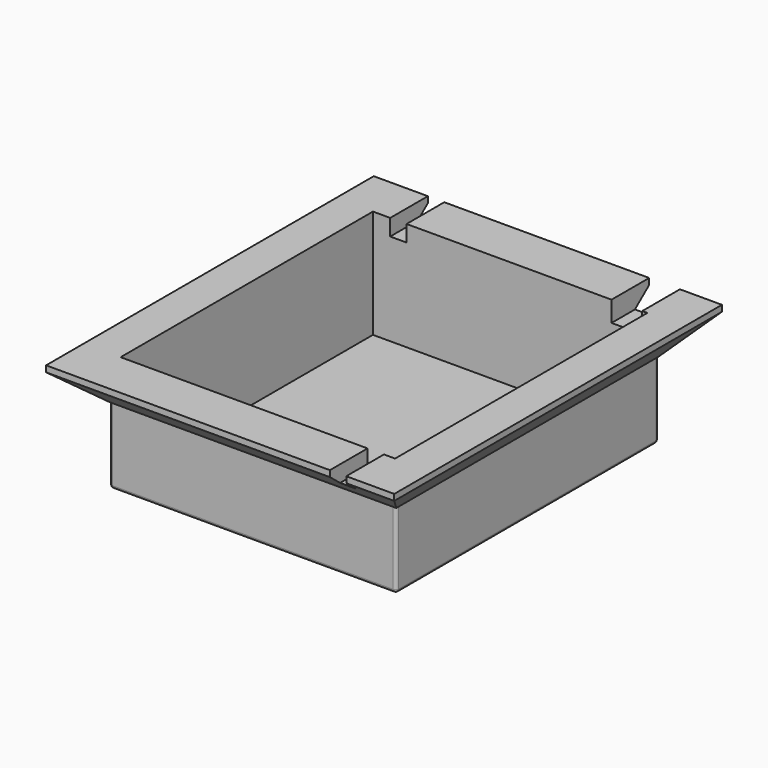
from build123d import *

# Parameters (mm, degrees)
F0_W      = 140
F0_H      = 160
F1_DEPTH  = 3
F2_W      = 140
F2_H      = 160
F2_W_2    = 134
F2_H_2    = 154
F3_DEPTH  = 50
F4_W      = 170
F4_H      = 200
F4_W_2    = 140
F4_H_2    = 160
F4_W_3    = 134
F4_H_3    = 154
F5_DEPTH  = 3
F8_R      = 1.5
F10_DEPTH = 170
F6_W      = 15
F6_H      = 7
F6_H_2    = 3
F6_W_2    = 8
F6_H_3    = 5
F11_DEPTH = 25
F7_W      = 8
F7_H      = 5
F7_H_2    = 3
F12_DEPTH = 25
F14_DEPTH = 200
F16_DEPTH = 200
F18_DEPTH = 170


with BuildPart() as f1:
    # F0 (on Top) → F1 (new body)
    with BuildSketch(Plane.XY):
        Rectangle(F0_W, F0_H)
    extrude(amount=F1_DEPTH)

    # F2 (on face) → F3 (join)
    with BuildSketch(Plane.XY.offset(3)):
        Rectangle(F2_W, F2_H)
        Rectangle(F2_W_2, F2_H_2, mode=Mode.SUBTRACT)
    extrude(amount=F3_DEPTH)

    # F4 (on face) → F5 (join)
    with BuildSketch(Plane.XY.offset(53)):
        Rectangle(F4_W, F4_H)
        Rectangle(F4_W_2, F4_H_2, mode=Mode.SUBTRACT)
        Rectangle(F4_W_2, F4_H_2)
        Rectangle(F4_W_3, F4_H_3, mode=Mode.SUBTRACT)
    extrude(amount=F5_DEPTH)

    # F8
    f8_edges = [f1.edges().sort_by_distance(p)[0] for p in [
        (-70, 0, 0),
        (0, -80, 0),
        (70, 0, 0),
        (0, 80, 0),
        (-70, 80, 26.5),
        (70, 80, 26.5),
        (-70, -80, 26.5),
        (70, -80, 26.5),
    ]]
    fillet(f8_edges, radius=F8_R)

    # F9 (on face) → F10 (join, through all)
    with BuildSketch(Plane(origin=(-85, 0, 0), x_dir=(0, -1, 0), z_dir=(-1, 0, 0))):
        Polygon((-80, 53), (-100, 53), (-80, 36.92748), align=None)
        Polygon((100, 53), (80, 53), (80, 36.92748), align=None)
    extrude(amount=-F10_DEPTH)

    # F6 (on face) → F11 (cut)
    with BuildSketch(Plane(origin=(0, 100, 0), x_dir=(-1, 0, 0), z_dir=(0, 1, 0))):
        with Locations((-56.994275, 49.5)):
            Rectangle(F6_W, F6_H)
        with Locations((-56.994275, 54.5)):
            Rectangle(F6_W, F6_H_2)
        with Locations((54.582062, 50.5)):
            Rectangle(F6_W_2, F6_H_3)
        with Locations((54.582062, 54.5)):
            Rectangle(F6_W_2, F6_H_2)
    extrude(amount=-F11_DEPTH, mode=Mode.SUBTRACT)

    # F7 (on face) → F12 (cut)
    with BuildSketch(Plane.XZ.offset(100)):
        with Locations((57.574429, 50.5)):
            Rectangle(F7_W, F7_H)
        with Locations((57.574429, 54.5)):
            Rectangle(F7_W, F7_H_2)
    extrude(amount=-F12_DEPTH, mode=Mode.SUBTRACT)

    # F13 (on face) → F14 (join, through all)
    with BuildSketch(Plane(origin=(0, 100, 0), x_dir=(-1, 0, 0), z_dir=(0, 1, 0))):
        Polygon((-70, 53), (-85, 53), (-70, 36.92748), align=None)
        Polygon((70, 53), (70, 36.92748), (85, 53), align=None)
    extrude(amount=-F14_DEPTH)

    # F15 (on face) → F16 (cut, through all)
    with BuildSketch(Plane(origin=(0, 100, 0), x_dir=(-1, 0, 0), z_dir=(0, 1, 0))):
        Polygon((-70, 36.92748), (-85, 53), (-85, 36.92748), align=None)
        Polygon((85, 36.92748), (85, 53), (70, 36.92748), align=None)
    extrude(amount=-F16_DEPTH, mode=Mode.SUBTRACT)

    # F17 (on face) → F18 (cut, through all)
    with BuildSketch(Plane.YZ.offset(85)):
        Polygon((-80, 36.92748), (-100, 53), (-100, 36.92748), align=None)
        Polygon((100, 36.92748), (100, 53), (80, 36.92748), align=None)
    extrude(amount=-F18_DEPTH, mode=Mode.SUBTRACT)


solid = f1.part
